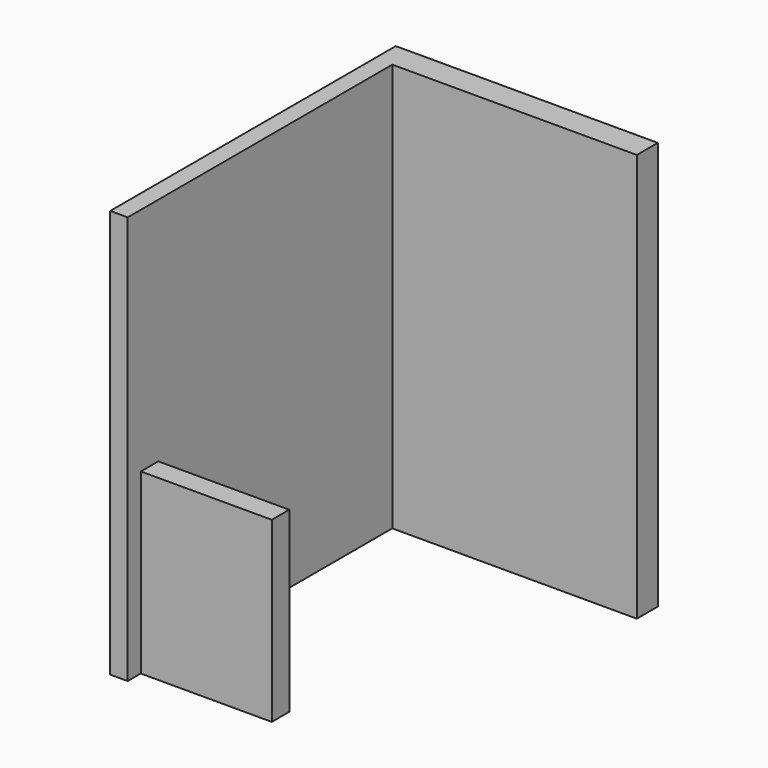
from build123d import *

# Parameters (mm, degrees)
F0_W     = 101.6
F0_H     = 1924.05
F3_DEPTH = 2374.9
F1_W     = 1524
F1_H     = 152.4
F4_DEPTH = 2374.9
F2_W     = 762
F2_H     = 127
F5_DEPTH = 1035.05


with BuildPart() as f3:
    # F0 (on Top) → F3 (new body)
    with BuildSketch(Plane.XY):
        with Locations((50.8, -962.025)):
            Rectangle(F0_W, F0_H)
    extrude(amount=F3_DEPTH)

    # F1 (on Top) → F4 (join)
    with BuildSketch(Plane.XY):
        with Locations((762, 76.2)):
            Rectangle(F1_W, F1_H)
    extrude(amount=F4_DEPTH)

    # F2 (on Top) → F5 (join)
    with BuildSketch(Plane.XY):
        with Locations((482.6, -1765.3)):
            Rectangle(F2_W, F2_H)
    extrude(amount=F5_DEPTH)


solid = f3.part
